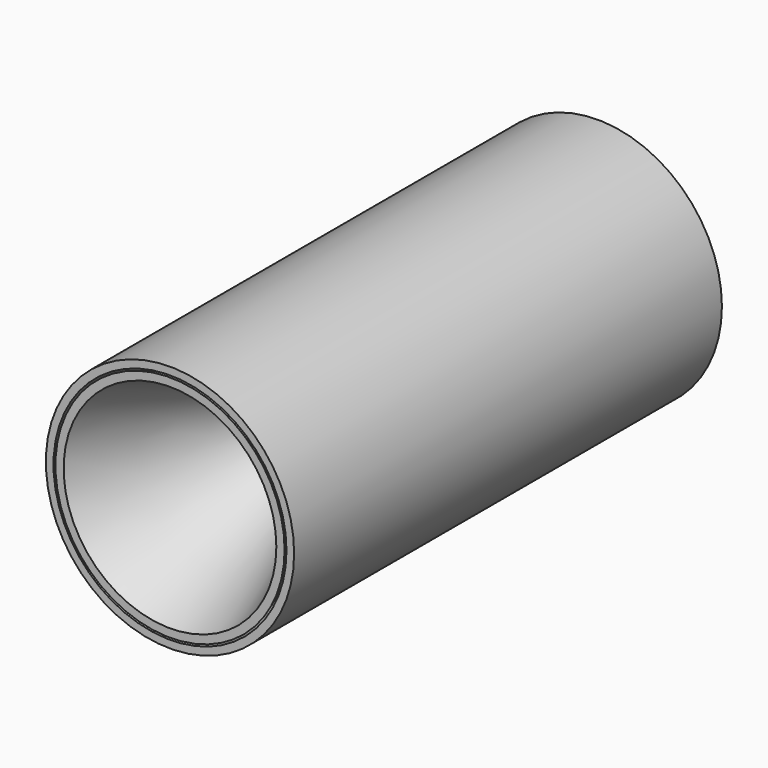
from build123d import *

# Parameters (mm, degrees)
F1_R      = 3.175
F2_DEPTH  = 63.5
F0_R      = 38.1
F3_R      = 12.7
F5_T      = -2.54
F6_R      = 10.795
F7_DEPTH  = 136.398
F9_R      = 41.275
F10_DEPTH = 177.8
F11_T     = -2.54


with BuildPart() as f2:
    # F1 (on Front) → F2 (new body)
    with BuildSketch(Plane.XZ):
        with Locations((58.286074549, 57.9951293766)):
            Circle(F1_R)
    extrude(amount=-F2_DEPTH)


with BuildPart() as f4:
    # F0 (on Front) → F4 section 0
    with BuildSketch(Plane.XZ):
        Circle(F0_R)
    # F3 (on face) → F4 section 1
    with BuildSketch(Plane(origin=(0, 63.5, 0), x_dir=(-1, 0, 0), z_dir=(0, 1, 0))):
        Circle(F3_R)
    loft()

    # F5
    f5_openings = [f4.faces().sort_by_distance(p)[0] for p in [
        (0, 0, 0),
    ]]
    offset(amount=F5_T, openings=f5_openings, kind=Kind.INTERSECTION)

    # F6 (on Front) → F7 (cut)
    with BuildSketch(Plane.XZ):
        Circle(F6_R)
    extrude(amount=-F7_DEPTH, mode=Mode.SUBTRACT)


with BuildPart() as f10:
    # F9 (on Front) → F10 (new body)
    with BuildSketch(Plane.XZ):
        Circle(F9_R)
    extrude(amount=-F10_DEPTH)

    # F11
    f11_openings = [f10.faces().sort_by_distance(p)[0] for p in [
        (0, 0, 0),
    ]]
    offset(amount=F11_T, openings=f11_openings)


solid = Compound([f4.part, f10.part])
